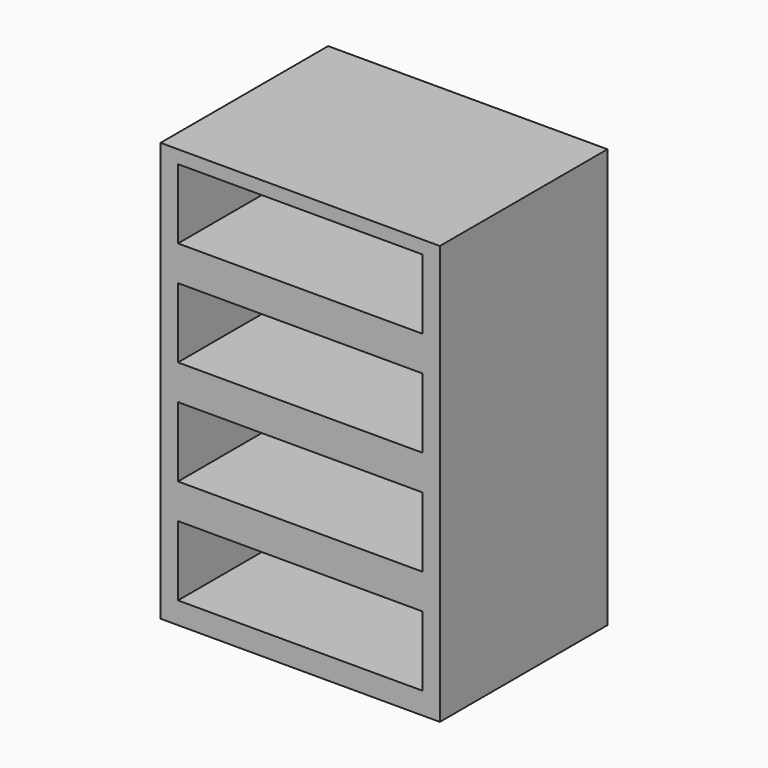
from build123d import *

# Parameters (mm, degrees)
F0_W     = 203.2
F0_H     = 152.4
F1_DEPTH = 304.8
F2_W     = 177.8
F2_H     = 50.8
F3_DEPTH = 127


with BuildPart() as f1:
    # F0 (on Top) → F1 (new body)
    with BuildSketch(Plane.XY):
        Rectangle(F0_W, F0_H)
    extrude(amount=F1_DEPTH)

    # F2 (on face) → F3 (cut)
    with BuildSketch(Plane.XZ.offset(76.2)):
        with Locations((0, 269.875)):
            Rectangle(F2_W, F2_H)
        with Locations((0, 193.675)):
            Rectangle(F2_W, F2_H)
        with Locations((0, 117.475)):
            Rectangle(F2_W, F2_H)
        with Locations((0, 41.275)):
            Rectangle(F2_W, F2_H)
    extrude(amount=-F3_DEPTH, mode=Mode.SUBTRACT)


solid = f1.part
